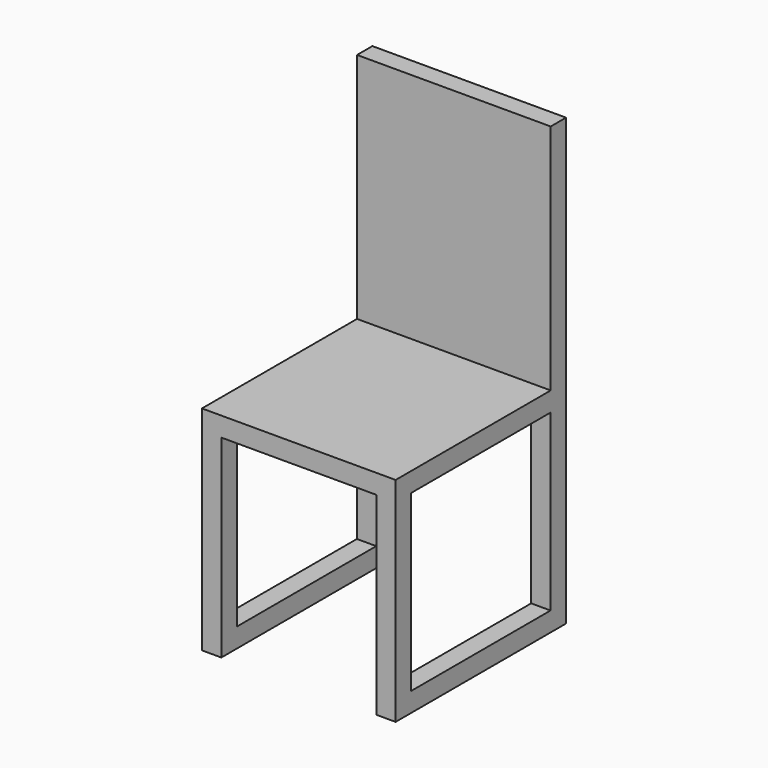
from build123d import *

# Parameters (mm, degrees)
F1_DEPTH = 13.97
F2_W     = 12.7
F2_H     = 1.257444
F3_DEPTH = 15.24
F4_W     = 1.27
F4_H     = 1.27
F5_DEPTH = 12.7
F6_W     = 1.27
F6_H     = 1.27
F7_DEPTH = 12.7


with BuildPart() as f1:
    # F0 (on Front) → F1 (new body)
    with BuildSketch(Plane.XZ):
        Polygon((-6.35, 0), (0, 0), (6.35, 0), (6.35, 1.27), (0, 1.27), (-6.35, 1.27), align=None)
    extrude(amount=F1_DEPTH)

    # F2 (on face) → F3 (join)
    with BuildSketch(Plane.XY.offset(1.27)):
        with Locations((0, -0.628722)):
            Rectangle(F2_W, F2_H)
    extrude(amount=F3_DEPTH)

    # F4 (on face) → F5 (join)
    with BuildSketch(Plane(origin=(0, 0, 0), x_dir=(1, 0, 0), z_dir=(0, 0, -1))):
        with Locations((-5.715, 13.335)):
            Rectangle(F4_W, F4_H)
        with Locations((-5.715, 0.635)):
            Rectangle(F4_W, F4_H)
        with Locations((5.715, 0.635)):
            Rectangle(F4_W, F4_H)
        with Locations((5.715, 13.335)):
            Rectangle(F4_W, F4_H)
    extrude(amount=F5_DEPTH)

    # F6 (on face) → F7 (join)
    with BuildSketch(Plane(origin=(0, -12.7, 0), x_dir=(-1, 0, 0), z_dir=(0, 1, 0))):
        with Locations((-5.715, -12.065)):
            Rectangle(F6_W, F6_H)
    extrude(amount=F7_DEPTH)

    # F8: F1 across plane


with BuildPart() as f1_1:
    add(f1.part)
    add(f1.part.mirror(Plane.YZ))


solid = f1_1.part
